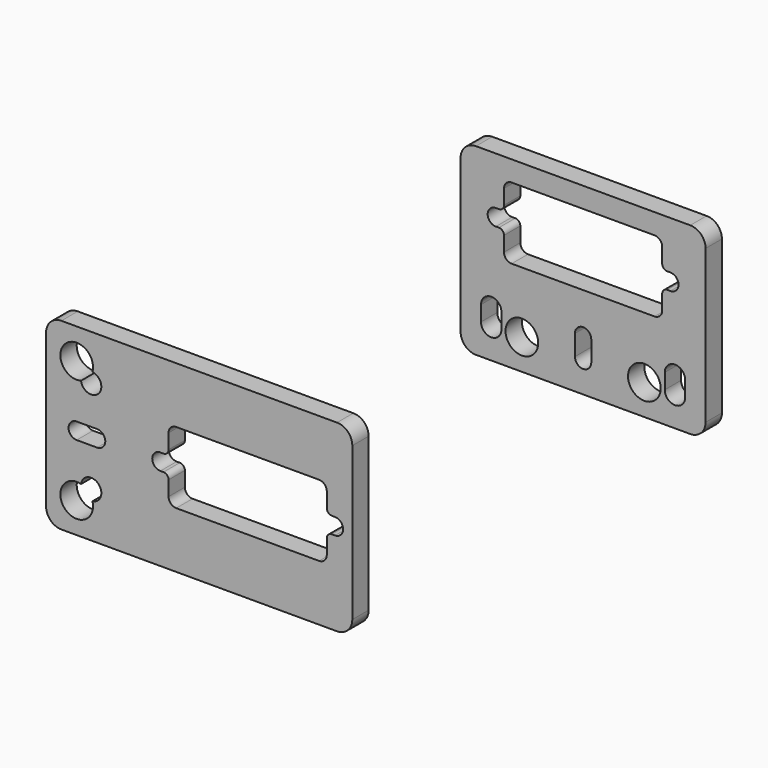
from build123d import *

# Parameters (mm, degrees)
F0_R     = 1.6
F1_DEPTH = 2
F2_DEPTH = 2


with BuildPart() as f1:
    # F0 (on Front) → F1 (new body)
    with BuildSketch(Plane.XZ):
        with BuildLine():
            Line((64.749799, 49.948693), (43.749799, 49.948693))
            ThreePointArc((43.749799, 49.948693), (42.689139, 49.509353), (42.249799, 48.448693))
            Line((42.249799, 48.448693), (42.249799, 33.448693))
            ThreePointArc((42.249799, 33.448693), (42.689139, 32.388033), (43.749799, 31.948693))
            Line((43.749799, 31.948693), (64.749799, 31.948693))
            ThreePointArc((64.749799, 31.948693), (65.810459, 32.388033), (66.249799, 33.448693))
            Line((66.249799, 33.448693), (66.249799, 48.448693))
            ThreePointArc((66.249799, 48.448693), (65.810459, 49.509353), (64.749799, 49.948693))
        make_face()
        with Locations((48.249799, 34.948693)):
            Circle(F0_R, mode=Mode.SUBTRACT)
        with BuildLine():
            Line((44.249799, 34.948693), (44.249799, 36.448693))
            ThreePointArc((44.249799, 36.448693), (45.249799, 37.448693), (46.249799, 36.448693))
            Line((46.249799, 36.448693), (46.249799, 34.948693))
            ThreePointArc((46.249799, 34.948693), (45.249799, 33.948693), (44.249799, 34.948693))
        make_face(mode=Mode.SUBTRACT)
        with BuildLine():
            ThreePointArc((53.449799, 36.948693), (54.249799, 37.748693), (55.049799, 36.948693))
            Line((55.049799, 36.948693), (55.049799, 34.948693))
            ThreePointArc((55.049799, 34.948693), (54.249799, 34.148693), (53.449799, 34.948693))
            Line((53.449799, 34.948693), (53.449799, 36.948693))
        make_face(mode=Mode.SUBTRACT)
        with Locations((60.249799, 34.948693)):
            Circle(F0_R, mode=Mode.SUBTRACT)
        with BuildLine():
            Line((62.249799, 34.948693), (62.249799, 36.448693))
            ThreePointArc((62.249799, 36.448693), (63.249799, 37.448693), (64.249799, 36.448693))
            Line((64.249799, 36.448693), (64.249799, 34.948693))
            ThreePointArc((64.249799, 34.948693), (63.249799, 33.948693), (62.249799, 34.948693))
        make_face(mode=Mode.SUBTRACT)
        with BuildLine():
            ThreePointArc((46.499799, 47.198693), (46.719469, 47.729023), (47.249799, 47.948693))
            Line((47.249799, 47.948693), (61.249799, 47.948693))
            ThreePointArc((61.249799, 47.948693), (61.780129, 47.729023), (61.999799, 47.198693))
            Line((61.999799, 47.198693), (61.999799, 45.748693))
            ThreePointArc((61.999799, 45.748693), (62.146245, 45.39514), (62.499799, 45.248693))
            Line((62.499799, 45.248693), (62.799799, 45.248693))
            ThreePointArc((62.799799, 45.248693), (63.599799, 44.448693), (62.799799, 43.648693))
            Line((62.799799, 43.648693), (62.499799, 43.648693))
            ThreePointArc((62.499799, 43.648693), (62.146245, 43.502246), (61.999799, 43.148693))
            Line((61.999799, 43.148693), (61.999799, 41.698693))
            ThreePointArc((61.999799, 41.698693), (61.780129, 41.168363), (61.249799, 40.948693))
            Line((61.249799, 40.948693), (47.249799, 40.948693))
            ThreePointArc((47.249799, 40.948693), (46.719469, 41.168363), (46.499799, 41.698693))
            Line((46.499799, 41.698693), (46.499799, 43.148693))
            ThreePointArc((46.499799, 43.148693), (46.353352, 43.502246), (45.999799, 43.648693))
            Line((45.999799, 43.648693), (45.699799, 43.648693))
            ThreePointArc((45.699799, 43.648693), (44.899799, 44.448693), (45.699799, 45.248693))
            Line((45.699799, 45.248693), (45.999799, 45.248693))
            ThreePointArc((45.999799, 45.248693), (46.353352, 45.39514), (46.499799, 45.748693))
            Line((46.499799, 45.748693), (46.499799, 47.198693))
        make_face(mode=Mode.SUBTRACT)
    extrude(amount=F1_DEPTH)


with BuildPart() as f2:
    # F0 (on Front) → F2 (new body)
    with BuildSketch(Plane.XZ):
        with BuildLine():
            ThreePointArc((1.638466, 5.178403), (2.077806, 4.117743), (3.138466, 3.678403))
            Line((3.138466, 3.678403), (30.138466, 3.678403))
            ThreePointArc((30.138466, 3.678403), (31.199126, 4.117743), (31.638466, 5.178403))
            Line((31.638466, 5.178403), (31.638466, 20.178403))
            ThreePointArc((31.638466, 20.178403), (31.199126, 21.239064), (30.138466, 21.678403))
            Line((30.138466, 21.678403), (3.138466, 21.678403))
            ThreePointArc((3.138466, 21.678403), (2.077806, 21.239064), (1.638466, 20.178403))
            Line((1.638466, 20.178403), (1.638466, 5.178403))
        make_face()
        with BuildLine():
            ThreePointArc((6.181657, 7.100969), (3.507095, 5.547032), (5.061032, 8.221594))
            ThreePointArc((5.061032, 8.221594), (6.759786, 8.799724), (6.181657, 7.100969))
        make_face(mode=Mode.SUBTRACT)
        with BuildLine():
            Line((6.638466, 11.878403), (4.638466, 11.878403))
            ThreePointArc((4.638466, 11.878403), (3.838466, 12.678403), (4.638466, 13.478403))
            Line((4.638466, 13.478403), (6.638466, 13.478403))
            ThreePointArc((6.638466, 13.478403), (7.438466, 12.678403), (6.638466, 11.878403))
        make_face(mode=Mode.SUBTRACT)
        with BuildLine():
            ThreePointArc((13.638466, 15.428403), (13.858136, 15.958733), (14.388466, 16.178403))
            Line((14.388466, 16.178403), (28.388466, 16.178403))
            ThreePointArc((28.388466, 16.178403), (28.918796, 15.958733), (29.138466, 15.428403))
            Line((29.138466, 15.428403), (29.138466, 13.978403))
            ThreePointArc((29.138466, 13.978403), (29.284913, 13.62485), (29.638466, 13.478403))
            Line((29.638466, 13.478403), (29.938466, 13.478403))
            ThreePointArc((29.938466, 13.478403), (30.738466, 12.678403), (29.938466, 11.878403))
            Line((29.938466, 11.878403), (29.638466, 11.878403))
            ThreePointArc((29.638466, 11.878403), (29.284913, 11.731957), (29.138466, 11.378403))
            Line((29.138466, 11.378403), (29.138466, 9.928403))
            ThreePointArc((29.138466, 9.928403), (28.918796, 9.398073), (28.388466, 9.178403))
            Line((28.388466, 9.178403), (14.388466, 9.178403))
            ThreePointArc((14.388466, 9.178403), (13.858136, 9.398073), (13.638466, 9.928403))
            Line((13.638466, 9.928403), (13.638466, 11.378403))
            ThreePointArc((13.638466, 11.378403), (13.492019, 11.731957), (13.138466, 11.878403))
            Line((13.138466, 11.878403), (12.838466, 11.878403))
            ThreePointArc((12.838466, 11.878403), (12.038466, 12.678403), (12.838466, 13.478403))
            Line((12.838466, 13.478403), (13.138466, 13.478403))
            ThreePointArc((13.138466, 13.478403), (13.492019, 13.62485), (13.638466, 13.978403))
            Line((13.638466, 13.978403), (13.638466, 15.428403))
        make_face(mode=Mode.SUBTRACT)
        with BuildLine():
            ThreePointArc((5.061032, 17.135212), (3.507095, 19.809774), (6.181657, 18.255837))
            ThreePointArc((6.181657, 18.255837), (6.759786, 16.557083), (5.061032, 17.135212))
        make_face(mode=Mode.SUBTRACT)
    extrude(amount=F2_DEPTH)


solid = Compound([f1.part, f2.part])
